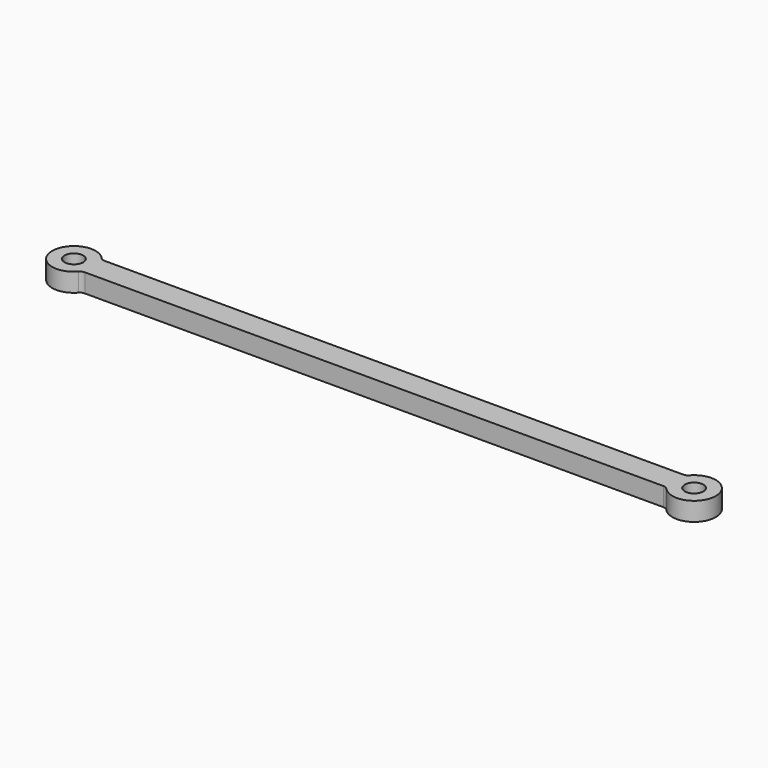
from build123d import *

# Parameters (mm, degrees)
F0_R     = 1.5
F1_DEPTH = 1.5


with BuildPart() as f1:
    # F0 (on Top) → F1 (new body, symmetric)
    with BuildSketch(Plane.XY):
        with BuildLine():
            ThreePointArc((-46.6458980338, 2), (-47.0541463242, 2.0871290708), (-47.3912540263, 2.3333333333))
            ThreePointArc((-47.3912540263, 2.3333333333), (-53.5, 0), (-47.3912540263, -2.3333333333))
            ThreePointArc((-47.3912540263, -2.3333333333), (-47.0541463242, -2.0871290708), (-46.6458980338, -2))
            Line((-46.6458980338, -2), (0, -2))
            Line((0, -2), (46.6458980338, -2))
            ThreePointArc((46.6458980338, -2), (47.0541463242, -2.0871290708), (47.3912540263, -2.3333333333))
            ThreePointArc((47.3912540263, -2.3333333333), (53.5, 0), (47.3912540263, 2.3333333333))
            ThreePointArc((47.3912540263, 2.3333333333), (47.0541463242, 2.0871290708), (46.6458980338, 2))
            Line((46.6458980338, 2), (0, 2))
            Line((0, 2), (-46.6458980338, 2))
        make_face()
        with Locations((-50, 0)):
            Circle(F0_R, mode=Mode.SUBTRACT)
        with Locations((50, 0)):
            Circle(F0_R, mode=Mode.SUBTRACT)
    extrude(amount=F1_DEPTH, both=True)


solid = f1.part
